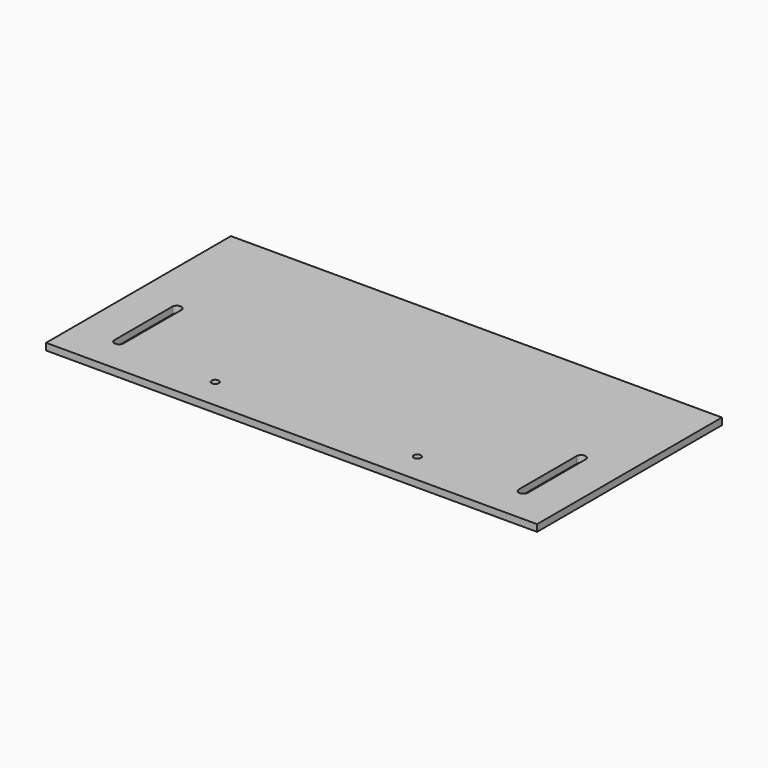
from build123d import *

# Parameters (mm, degrees)
F0_W     = 431.8
F0_H     = 203.2
F0_R     = 3.175
F1_DEPTH = 3


with BuildPart() as f1:
    # F0 (on Top) → F1 (new body, symmetric)
    with BuildSketch(Plane.XY):
        Rectangle(F0_W, F0_H)
        with Locations((-88.9, -74.375)):
            Circle(F0_R, mode=Mode.SUBTRACT)
        with BuildLine():
            Line((-181.8, -69.025), (-181.8, -5.525))
            ThreePointArc((-181.8, -5.525), (-177.8, -1.525), (-173.8, -5.525))
            Line((-173.8, -5.525), (-173.8, -69.025))
            ThreePointArc((-173.8, -69.025), (-177.8, -73.025), (-181.8, -69.025))
        make_face(mode=Mode.SUBTRACT)
        with Locations((88.9, -74.375)):
            Circle(F0_R, mode=Mode.SUBTRACT)
        with BuildLine():
            ThreePointArc((181.8, -69.025), (177.8, -73.025), (173.8, -69.025))
            Line((173.8, -69.025), (173.8, -5.525))
            ThreePointArc((173.8, -5.525), (177.8, -1.525), (181.8, -5.525))
            Line((181.8, -5.525), (181.8, -69.025))
        make_face(mode=Mode.SUBTRACT)
    extrude(amount=F1_DEPTH, both=True)


solid = f1.part
